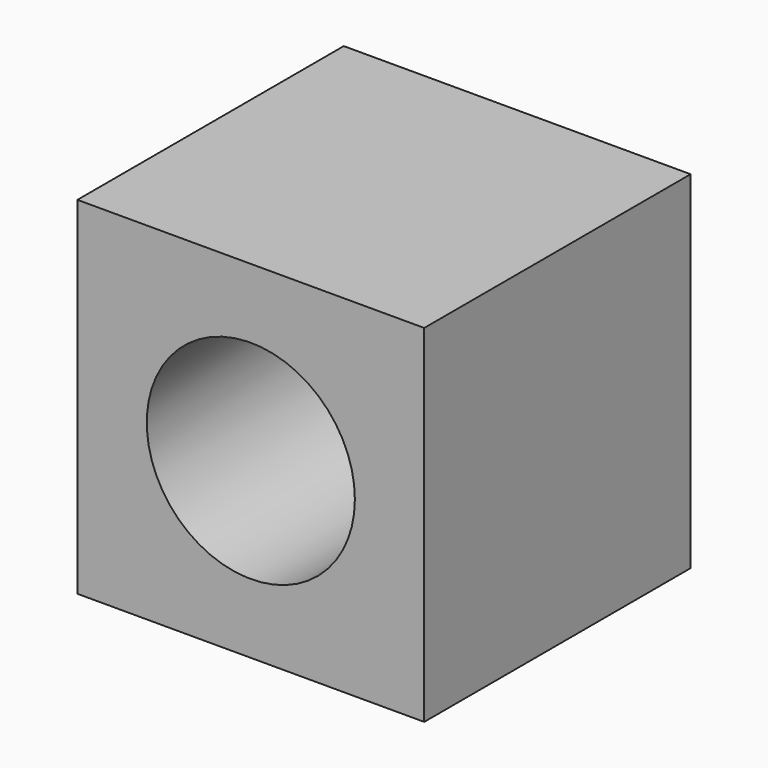
from build123d import *

# Parameters (mm, degrees)
F0_W     = 25
F0_H     = 25
F1_DEPTH = 24
F2_R     = 7.5
F3_DEPTH = 28


with BuildPart() as f1:
    # F0 (on Front) → F1 (new body)
    with BuildSketch(Plane.XZ):
        Rectangle(F0_W, F0_H)
    extrude(amount=-F1_DEPTH)

    # F2 (on Front) → F3 (cut)
    with BuildSketch(Plane.XZ):
        Circle(F2_R)
    extrude(amount=-F3_DEPTH, mode=Mode.SUBTRACT)


solid = f1.part
